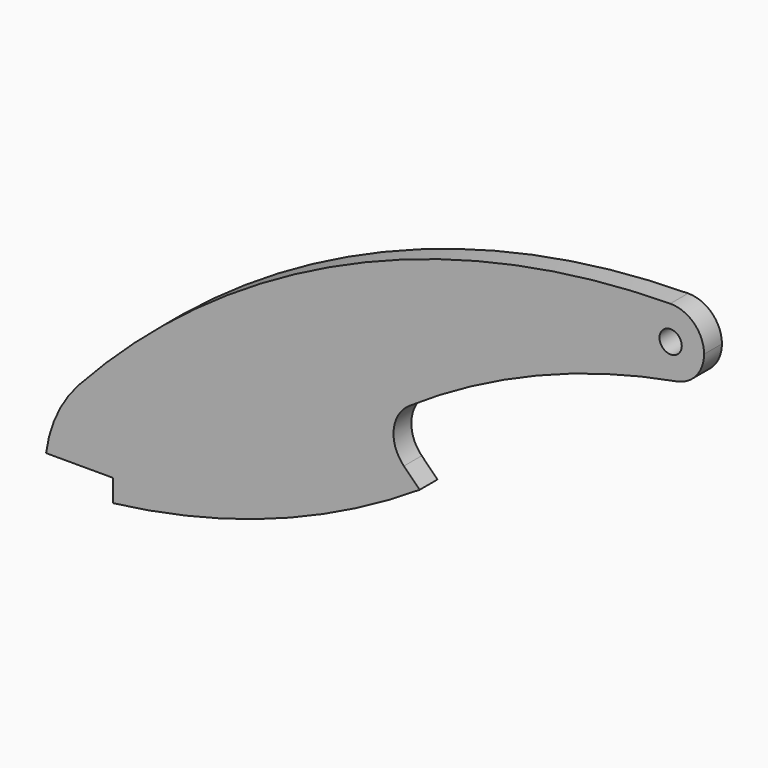
from build123d import *

# Parameters (mm, degrees)
F0_R     = 6.35
F1_DEPTH = 12.7


with BuildPart() as f1:
    # F0 (on Front) → F1 (new body)
    with BuildSketch(Plane.XZ):
        with BuildLine():
            ThreePointArc((44.034086, 65.603644), (31.603262, 46.945036), (25.4, 25.4))
            Line((25.4, 25.4), (63.5, 25.4))
            Line((63.5, 25.4), (63.5, 12.7))
            ThreePointArc((63.5, 12.7), (154.429017, 34.504579), (238.125, 76.2))
            Line((238.125, 76.2), (229.144744, 85.180256))
            ThreePointArc((229.144744, 85.180256), (223.299522, 101.436404), (232.111116, 116.295232))
            ThreePointArc((232.111116, 116.295232), (304.972177, 155.20276), (384.335327, 178.094252))
            ThreePointArc((384.335327, 178.094252), (362.032394, 195.08013), (380.807759, 215.89903))
            ThreePointArc((380.807759, 215.89903), (196.809301, 175.733004), (44.034086, 65.603644))
        make_face()
        with BuildLine():
            ThreePointArc((400.05, 196.85), (394.402244, 210.388181), (380.807759, 215.89903))
            ThreePointArc((380.807759, 215.89903), (362.032394, 195.08013), (384.335327, 178.094252))
            ThreePointArc((384.335327, 178.094252), (395.602063, 184.61553), (400.05, 196.85))
        make_face()
        with Locations((381, 196.85)):
            Circle(F0_R, mode=Mode.SUBTRACT)
    extrude(amount=F1_DEPTH)


solid = f1.part
